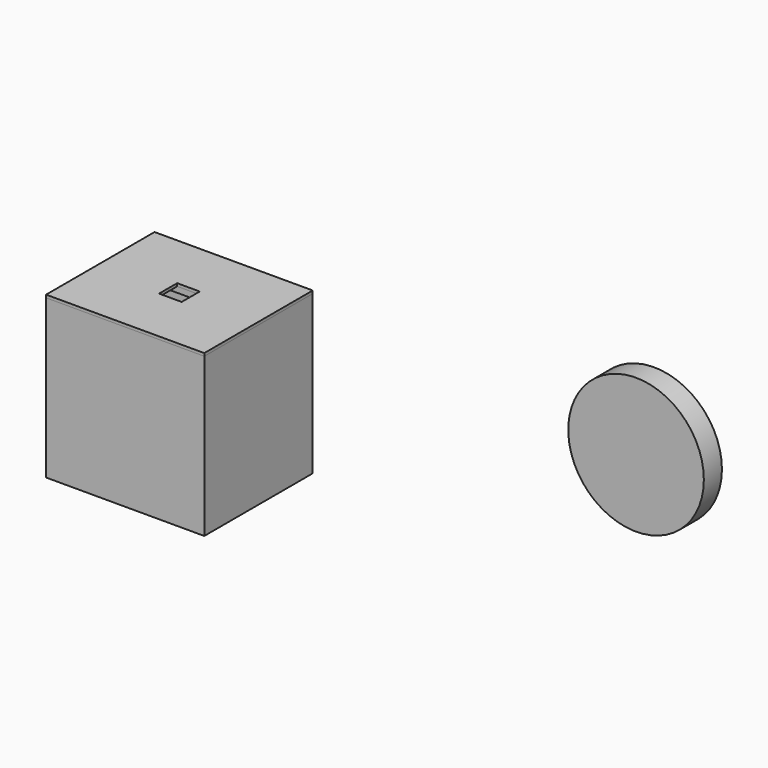
from build123d import *

# Parameters (mm, degrees)
F0_W      = 177.8
F0_H      = 177.8
F1_DEPTH  = 152.4
F2_T      = -6.35
F4_DEPTH  = 25.4
F5_R      = 76.2
F6_DEPTH  = 25.4
F7_W      = 127
F7_H      = 25.4
F8_DEPTH  = 25.4
F9_W      = 177.8
F9_H      = 152.4
F10_DEPTH = 3.175
F11_W     = 25.4
F11_H     = 25.4
F12_DEPTH = 25.4


with BuildPart() as f1:
    # F0 (on Front) → F1 (new body)
    with BuildSketch(Plane.XZ):
        with Locations((-88.9, -88.9)):
            Rectangle(F0_W, F0_H)
    extrude(amount=F1_DEPTH)

    # F2
    f2_openings = [f1.faces().sort_by_distance(p)[0] for p in [
        (-88.9, -76.2, -177.8),
    ]]
    offset(amount=F2_T, openings=f2_openings)

    # F3 (on face) → F4 (cut)
    with BuildSketch(Plane(origin=(0, 0, 0), x_dir=(-1, 0, 0), z_dir=(0, 1, 0))):
        with BuildLine():
            Line((70.077266, -101.60136), (69.622054, -177.8))
            Line((69.622054, -177.8), (107.722734, -177.8))
            Line((107.722734, -177.8), (108.177946, -101.60136))
            ThreePointArc((108.177946, -101.60136), (89.127606, -82.436873), (70.077266, -101.60136))
        make_face()
    extrude(amount=-F4_DEPTH, mode=Mode.SUBTRACT)

    # F7 (on face) → F8 (cut)
    with BuildSketch(Plane.XY):
        with Locations((-88.9, -76.2)):
            Rectangle(F7_W, F7_H)
    extrude(amount=-F8_DEPTH, mode=Mode.SUBTRACT)


with BuildPart() as f6:
    # F5 (on Front) → F6 (new body)
    with BuildSketch(Plane.XZ):
        with Locations((383.694321, -24.209617)):
            Circle(F5_R)
    extrude(amount=F6_DEPTH)


with BuildPart() as f10:
    # F9 (on face) → F10 (new body)
    with BuildSketch(Plane.XY):
        with Locations((-88.9, -76.2)):
            Rectangle(F9_W, F9_H)
    extrude(amount=F10_DEPTH)

    # F11 (on face) → F12 (cut)
    with BuildSketch(Plane.XY.offset(3.175)):
        with Locations((-88.9, -76.2)):
            Rectangle(F11_W, F11_H)
    extrude(amount=-F12_DEPTH, mode=Mode.SUBTRACT)


solid = Compound([f1.part, f6.part, f10.part])
